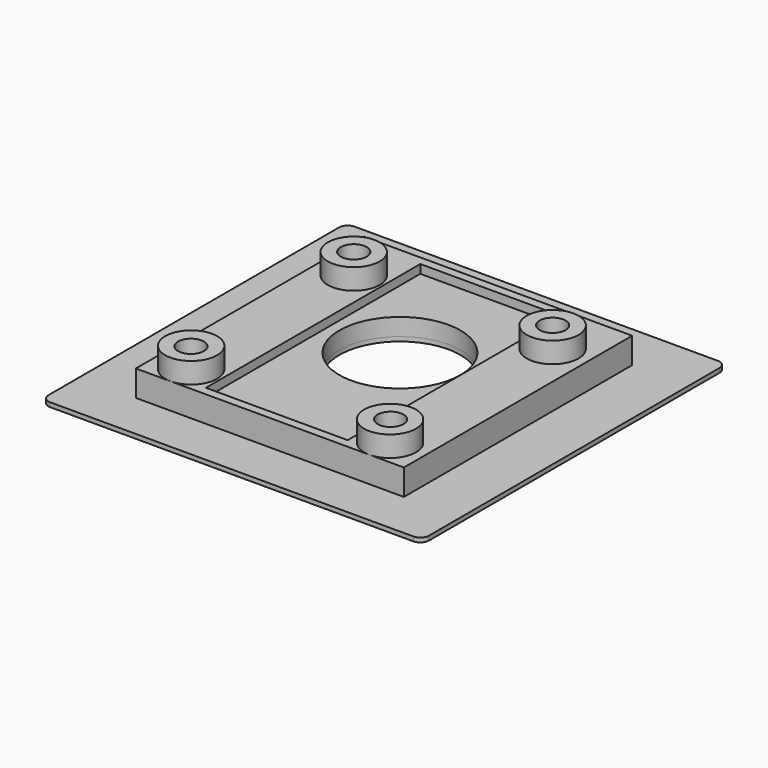
from build123d import *

# Parameters (mm, degrees)
F0_W      = 31
F0_H      = 33
F1_DEPTH  = 2
F2_R      = 3
F3_DEPTH  = 2.4
F4_W      = 16.4
F4_H      = 31
F5_DEPTH  = 1
F6_R      = 1.5
F7_DEPTH  = 3.4
F8_R      = 1.5
F9_DEPTH  = 3.4
F10_R     = 7
F11_DEPTH = 25
F12_DEPTH = 1
F13_W     = 44
F13_H     = 44
F13_W_2   = 31
F13_H_2   = 33
F13_R     = 7
F14_DEPTH = 0.5
F15_R     = 1


with BuildPart() as f1:
    # F0 (on Top) → F1 (new body)
    with BuildSketch(Plane.XY):
        with Locations((15.5, 16.5)):
            Rectangle(F0_W, F0_H)
    extrude(amount=F1_DEPTH)

    # F2 (on face) → F3 (join)
    with BuildSketch(Plane.XY.offset(2)):
        with Locations((4, 3)):
            Circle(F2_R)
        with Locations((4, 26.5)):
            Circle(F2_R)
        with Locations((27, 26.5)):
            Circle(F2_R)
        with Locations((27, 3)):
            Circle(F2_R)
    extrude(amount=F3_DEPTH)

    # F4 (on face) → F5 (cut)
    with BuildSketch(Plane.XY.offset(2)):
        with Locations((15.5, 16.5)):
            Rectangle(F4_W, F4_H)
    extrude(amount=-F5_DEPTH, mode=Mode.SUBTRACT)

    # F6 (on face) → F7 (cut)
    with BuildSketch(Plane.XY.offset(4.4)):
        with Locations((27, 26.5)):
            Circle(F6_R)
    extrude(amount=-F7_DEPTH, mode=Mode.SUBTRACT)

    # F8 (on face) → F9 (cut)
    with BuildSketch(Plane.XY.offset(4.4)):
        with Locations((4, 26.5)):
            Circle(F8_R)
        with Locations((4.0643862449, 2.8885749634)):
            Circle(F8_R)
        with Locations((27.0567759871, 3.0037942342)):
            Circle(F8_R)
    extrude(amount=-F9_DEPTH, mode=Mode.SUBTRACT)

    # F10 (on face) → F11 (cut)
    with BuildSketch(Plane.XY.offset(1)):
        with Locations((15.5, 18.8)):
            Circle(F10_R)
    extrude(amount=-F11_DEPTH, mode=Mode.SUBTRACT)

    # F12 (add): a face of the model
    f12_faces = [f1.faces().sort_by_distance(p)[0] for p in [
        (0.4527692569, 16.5, 0),
    ]]
    extrude(f12_faces, amount=F12_DEPTH)

    # F13 (on face) → F14 (join)
    with BuildSketch(Plane(origin=(0, 0, -1), x_dir=(1, 0, 0), z_dir=(0, 0, -1))):
        with Locations((15.5, -16.5)):
            Rectangle(F13_W, F13_H)
        with Locations((15.5, -16.5)):
            Rectangle(F13_W_2, F13_H_2, mode=Mode.SUBTRACT)
        with Locations((15.5, -16.5)):
            Rectangle(F13_W_2, F13_H_2)
        with Locations((15.5, -18.8)):
            Circle(F13_R, mode=Mode.SUBTRACT)
    extrude(amount=F14_DEPTH)

    # F15
    f15_edges = [f1.edges().sort_by_distance(p)[0] for p in [
        (-6.5, -5.5, -1.25),
        (37.5, -5.5, -1.25),
        (37.5, 38.5, -1.25),
        (-6.5, 38.5, -1.25),
    ]]
    fillet(f15_edges, radius=F15_R)


solid = f1.part
